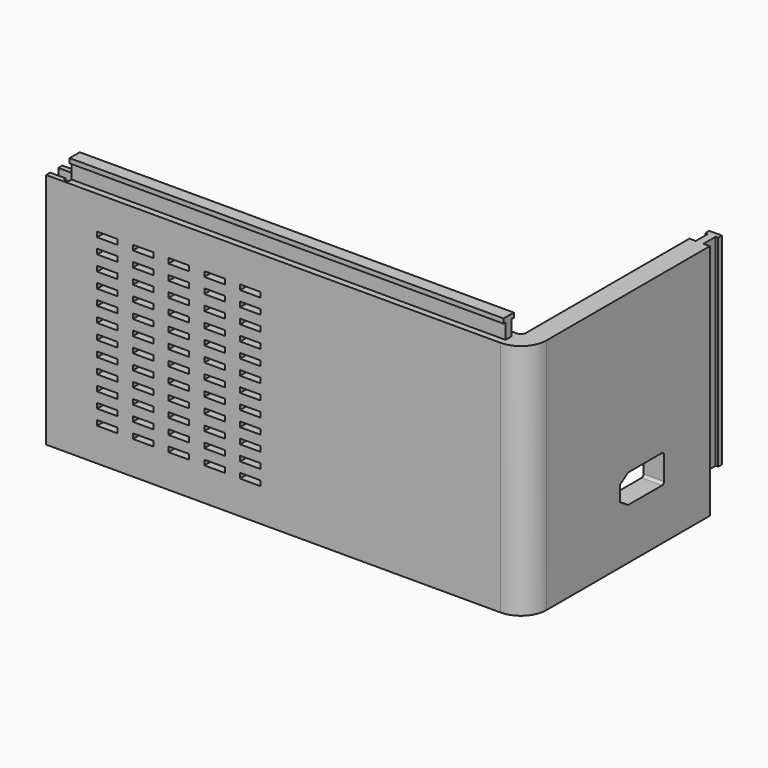
from build123d import *

# Parameters (mm, degrees)
PAD058_DEPTH                    = 46.5
SKETCH120_W                     = 4
SKETCH120_H                     = 1
POCKET068_DEPTH                 = 5
SKETCH120_LINEARPATTERN_2_W     = 4
SKETCH120_LINEARPATTERN_2_H     = 1
POCKET068_LINEARPATTERN_2_DEPTH = 5
SKETCH120_LINEARPATTERN_3_W     = 4
SKETCH120_LINEARPATTERN_3_H     = 1
POCKET068_LINEARPATTERN_3_DEPTH = 5
SKETCH120_LINEARPATTERN_4_W     = 4
SKETCH120_LINEARPATTERN_4_H     = 1
POCKET068_LINEARPATTERN_4_DEPTH = 5
SKETCH120_LINEARPATTERN_5_W     = 4
SKETCH120_LINEARPATTERN_5_H     = 1
POCKET068_LINEARPATTERN_5_DEPTH = 5
LINEARPATTERN001_COUNT          = 12
LINEARPATTERN001_PITCH          = 2.954545
POCKET069_DEPTH                 = 0.001
POCKET069_DEPTH_BACK            = 94.001
SKETCH122_W                     = 3
SKETCH122_H                     = 2
SKETCH122_W_2                   = 1
SKETCH122_H_2                   = 3
POCKET070_DEPTH                 = 70.9
SKETCH123_W                     = 2
SKETCH123_H                     = 35
POCKET071_DEPTH                 = 7
PAD_START                       = 4
SKETCH119_W                     = 1.5
SKETCH119_H                     = 3
SKETCH119_W_2                   = 2.5
SKETCH119_H_2                   = 0.9
PAD_DEPTH                       = 85
PAD059_START                    = 7
SKETCH_W                        = 1.5
SKETCH_H                        = 3
SKETCH_W_2                      = 2.5
SKETCH_H_2                      = 0.9
PAD059_DEPTH                    = 39.5


with BuildPart() as part:
    # Sketch117 → Pad058 (new body)
    with BuildSketch(Plane.XY):
        with BuildLine():
            Line((0, 0), (89, 0))
            ThreePointArc((89, 0), (92.535534, 1.464466), (94, 5))
            Line((94, 5), (94, 45))
            Line((90, 45), (94, 45))
            Line((90, 5), (90, 45))
            ThreePointArc((89, 4), (89.707107, 4.292893), (90, 5))
            Line((0, 4), (89, 4))
            Line((0, 0), (0, 4))
        make_face()
    extrude(amount=PAD058_DEPTH)

    # Sketch120 → Pocket068 (cut)
    with BuildSketch(Plane.XZ):
        with Locations((12, 39.5)):
            Rectangle(SKETCH120_W, SKETCH120_H)
    pocket068 = extrude(amount=-POCKET068_DEPTH, mode=Mode.SUBTRACT)

    # Sketch120 LinearPattern 2 → Pocket068 LinearPattern 2 (cut)
    with BuildSketch(Plane(origin=(7, 0, 0), x_dir=(1, 0, 0), z_dir=(0, -1, 0))):
        with Locations((12, 39.5)):
            Rectangle(SKETCH120_LINEARPATTERN_2_W, SKETCH120_LINEARPATTERN_2_H)
    pocket068_linearpattern_2 = extrude(amount=-POCKET068_LINEARPATTERN_2_DEPTH, mode=Mode.SUBTRACT)

    # Sketch120 LinearPattern 3 → Pocket068 LinearPattern 3 (cut)
    with BuildSketch(Plane(origin=(14, 0, 0), x_dir=(1, 0, 0), z_dir=(0, -1, 0))):
        with Locations((12, 39.5)):
            Rectangle(SKETCH120_LINEARPATTERN_3_W, SKETCH120_LINEARPATTERN_3_H)
    pocket068_linearpattern_3 = extrude(amount=-POCKET068_LINEARPATTERN_3_DEPTH, mode=Mode.SUBTRACT)

    # Sketch120 LinearPattern 4 → Pocket068 LinearPattern 4 (cut)
    with BuildSketch(Plane(origin=(21, 0, 0), x_dir=(1, 0, 0), z_dir=(0, -1, 0))):
        with Locations((12, 39.5)):
            Rectangle(SKETCH120_LINEARPATTERN_4_W, SKETCH120_LINEARPATTERN_4_H)
    pocket068_linearpattern_4 = extrude(amount=-POCKET068_LINEARPATTERN_4_DEPTH, mode=Mode.SUBTRACT)

    # Sketch120 LinearPattern 5 → Pocket068 LinearPattern 5 (cut)
    with BuildSketch(Plane(origin=(28, 0, 0), x_dir=(1, 0, 0), z_dir=(0, -1, 0))):
        with Locations((12, 39.5)):
            Rectangle(SKETCH120_LINEARPATTERN_5_W, SKETCH120_LINEARPATTERN_5_H)
    pocket068_linearpattern_5 = extrude(amount=-POCKET068_LINEARPATTERN_5_DEPTH, mode=Mode.SUBTRACT)

    # LinearPattern001: Pocket068, Pocket068 LinearPattern 2, Pocket068 LinearPattern 3, Pocket068 LinearPattern 4, Pocket068 LinearPattern 5 ×12
    with Locations(*[(0, 0, -i * LINEARPATTERN001_PITCH) for i in range(1, LINEARPATTERN001_COUNT)]):
        add(pocket068, mode=Mode.SUBTRACT)
        add(pocket068_linearpattern_2, mode=Mode.SUBTRACT)
        add(pocket068_linearpattern_3, mode=Mode.SUBTRACT)
        add(pocket068_linearpattern_4, mode=Mode.SUBTRACT)
        add(pocket068_linearpattern_5, mode=Mode.SUBTRACT)

    # Sketch121 → Pocket069 (cut, two sides)
    with BuildSketch(Plane.YZ) as pocket069_sk:
        with BuildLine():
            Line((25, 10), (33.3, 10))
            ThreePointArc((33.3, 10), (33.653553, 10.146447), (33.8, 10.5))
            Line((33.8, 10.5), (33.8, 15.1))
            ThreePointArc((33.8, 15.1), (33.653553, 15.453553), (33.3, 15.6))
            Line((33.3, 15.6), (25, 15.6))
            Line((25, 15.6), (23, 14.3))
            Line((23, 14.3), (23, 11.3))
            Line((25, 10), (23, 11.3))
        make_face()
    extrude(amount=-POCKET069_DEPTH, mode=Mode.SUBTRACT)
    extrude(pocket069_sk.sketch, amount=POCKET069_DEPTH_BACK, mode=Mode.SUBTRACT)

    # Sketch122 → Pocket070 (cut)
    with BuildSketch(Plane.XY):
        with Locations((1.5, 2)):
            Rectangle(SKETCH122_W, SKETCH122_H)
        with Locations((3.5, 2)):
            Rectangle(SKETCH122_W_2, SKETCH122_H_2)
    extrude(amount=POCKET070_DEPTH, mode=Mode.SUBTRACT)

    # Sketch123 → Pocket071 (cut)
    with BuildSketch(Plane.XY):
        with Locations((92, 27.5)):
            Rectangle(SKETCH123_W, SKETCH123_H)
    extrude(amount=POCKET071_DEPTH, mode=Mode.SUBTRACT)

    # Sketch119 → Pad (join)
    with BuildSketch(Plane.YZ.offset(PAD_START)):
        with Locations((2, 48)):
            Rectangle(SKETCH119_W, SKETCH119_H)
        with Locations((2, 49.95)):
            Rectangle(SKETCH119_W_2, SKETCH119_H_2)
    extrude(amount=PAD_DEPTH)

    # Sketch → Pad059 (join)
    with BuildSketch(Plane.XY.offset(PAD059_START)):
        with Locations((92, 46.5)):
            Rectangle(SKETCH_W, SKETCH_H)
        with Locations((92, 48.45)):
            Rectangle(SKETCH_W_2, SKETCH_H_2)
    extrude(amount=PAD059_DEPTH)


solid = part.part
